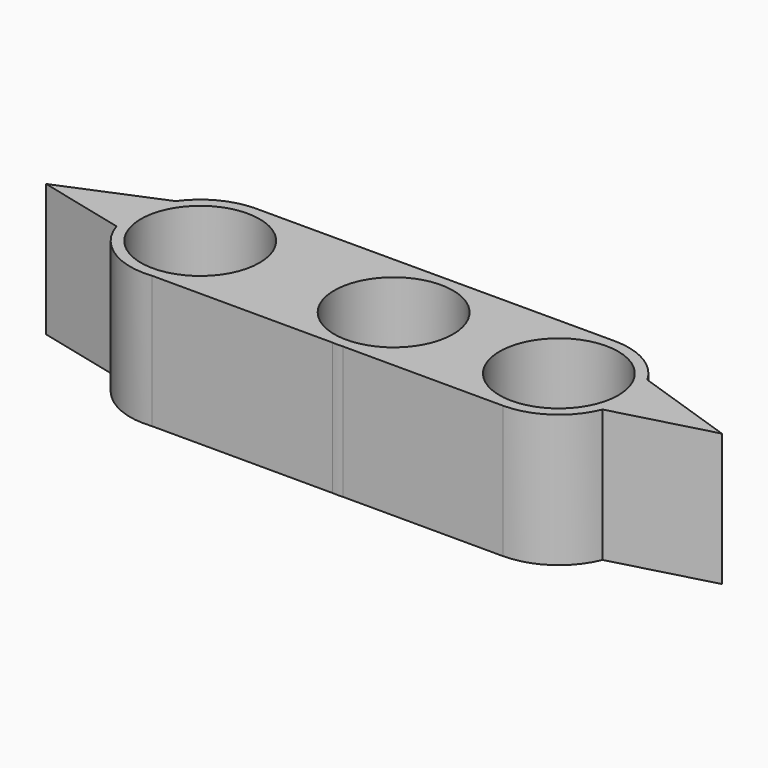
from build123d import *

# Parameters (mm, degrees)
F0_R     = 11.2
F1_DEPTH = 25


with BuildPart() as f1:
    # F0 (on Top) → F1 (new body)
    with BuildSketch(Plane.XY):
        with BuildLine():
            ThreePointArc((0.9477981241, -13.1659287069), (9.6630982412, -8.9924708718), (13.2, 0))
            ThreePointArc((13.2, 0), (9.438299675, 9.2281362823), (0.2971970842, 13.19665389))
            Line((0.2971970842, 13.19665389), (-0.3000556461, 13.1965892036))
            ThreePointArc((-0.3000556461, 13.1965892036), (-13.1956435727, 0.3391027885), (-0.9774661602, -13.1637593379))
            Line((-0.9774661602, -13.1637593379), (0.9477981241, -13.1659287069))
        make_face()
        Circle(F0_R, mode=Mode.SUBTRACT)
        with BuildLine():
            ThreePointArc((0.2971970842, 13.19665389), (9.438299675, 9.2281362823), (13.2, 0))
            ThreePointArc((13.2, 0), (9.6630982412, -8.9924708718), (0.9477981241, -13.1659287069))
            Line((0.9477981241, -13.1659287069), (31.1778370012, -13.1999916203))
            ThreePointArc((31.1778370012, -13.1999916203), (38.5529222641, -10.9575218275), (43.4179762546, -4.9782406771))
            ThreePointArc((43.4179762546, -4.9782406771), (44.3640726701, 0.8690349983), (42.6579258061, 6.5413179718))
            ThreePointArc((42.6579258061, 6.5413179718), (37.8213685594, 11.4149416978), (31.1912809763, 13.1999999226))
            Line((31.1912809763, 13.1999999226), (0.2971970842, 13.19665389))
        make_face()
        with Locations((31.1927106231, 0)):
            Circle(F0_R, mode=Mode.SUBTRACT)
        with BuildLine():
            Line((-0.3000556461, 13.1965892036), (0.2971970842, 13.19665389))
            ThreePointArc((0.2971970842, 13.19665389), (-0.0014296468, 13.1999999226), (-0.3000556461, 13.1965892036))
        make_face()
        with BuildLine():
            ThreePointArc((-0.9774661602, -13.1637593379), (-0.014873622, -13.1999916203), (0.9477981241, -13.1659287069))
            Line((0.9477981241, -13.1659287069), (-0.9774661602, -13.1637593379))
        make_face()
        with BuildLine():
            ThreePointArc((-0.9774661602, -13.1637593379), (-13.1956435727, 0.3391027885), (-0.3000556461, 13.1965892036))
            Line((-0.3000556461, 13.1965892036), (-36.0695777831, 13.192715129))
            Line((-36.0695777831, 13.192715129), (-36.9494019058, 13.1926198383))
            ThreePointArc((-36.9494019058, 13.1926198383), (-42.7568480948, 11.627237838), (-47.2668801052, 7.6477324276))
            ThreePointArc((-47.2668801052, 7.6477324276), (-49.5537048838, 2.0127531993), (-49.0715828762, -4.0494342641))
            ThreePointArc((-49.0715828762, -4.0494342641), (-43.7008466332, -11.0681450441), (-35.1057779137, -13.1253038886))
            Line((-35.1057779137, -13.1253038886), (-0.9774661602, -13.1637593379))
        make_face()
        with Locations((-36.5080609918, 0)):
            Circle(F0_R, mode=Mode.SUBTRACT)
        with BuildLine():
            Line((-36.9494019058, 13.1926198383), (-36.0695777831, 13.192715129))
            ThreePointArc((-36.0695777831, 13.192715129), (-36.5094906386, 13.1999999226), (-36.9494019058, 13.1926198383))
        make_face()
        with BuildLine():
            Line((61.9657859206, 0), (42.6579258061, 6.5413179718))
            ThreePointArc((42.6579258061, 6.5413179718), (44.3640726701, 0.8690349983), (43.4179762546, -4.9782406771))
            Line((43.4179762546, -4.9782406771), (61.9657859206, 0))
        make_face()
        with BuildLine():
            Line((-65.6026080251, 0), (-49.0715828762, -4.0494342641))
            ThreePointArc((-49.0715828762, -4.0494342641), (-49.5537048838, 2.0127531993), (-47.2668801052, 7.6477324276))
            Line((-47.2668801052, 7.6477324276), (-65.6026080251, 0))
        make_face()
    extrude(amount=F1_DEPTH)


solid = f1.part
